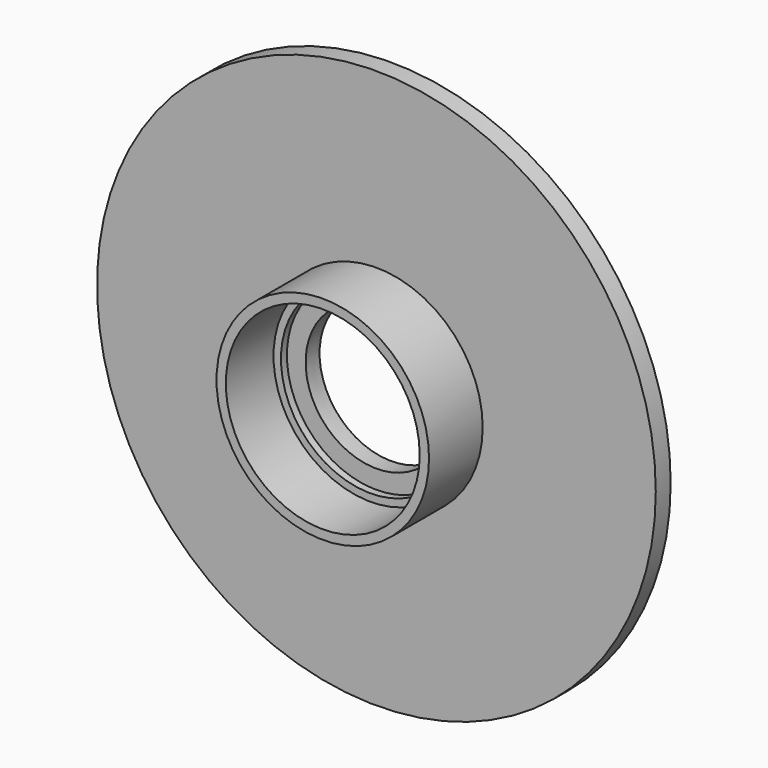
from build123d import *

# Parameters (mm, degrees)
F0_R     = 75
F1_DEPTH = 5
F2_R     = 19
F3_DEPTH = 5
F3_TAPER = -3
F4_R     = 28.525
F4_R_2   = 26.025
F5_DEPTH = 18
F6_R     = 26.025
F6_R_2   = 24.025
F7_DEPTH = 2


with BuildPart() as f1:
    # F0 (on Front) → F1 (new body)
    with BuildSketch(Plane.XZ):
        Circle(F0_R)
    extrude(amount=F1_DEPTH)

    # F2 (on face) → F3 (cut, through all)
    with BuildSketch(Plane.XZ.offset(5)):
        Circle(F2_R)
    extrude(amount=-F3_DEPTH, taper=F3_TAPER, mode=Mode.SUBTRACT)

    # F4 (on face) → F5 (join)
    with BuildSketch(Plane.XZ.offset(5)):
        Circle(F4_R)
        Circle(F4_R_2, mode=Mode.SUBTRACT)
    extrude(amount=F5_DEPTH)

    # F6 (on face) → F7 (join)
    with BuildSketch(Plane.XZ.offset(5)):
        Circle(F6_R)
        Circle(F6_R_2, mode=Mode.SUBTRACT)
    extrude(amount=F7_DEPTH)


solid = f1.part
